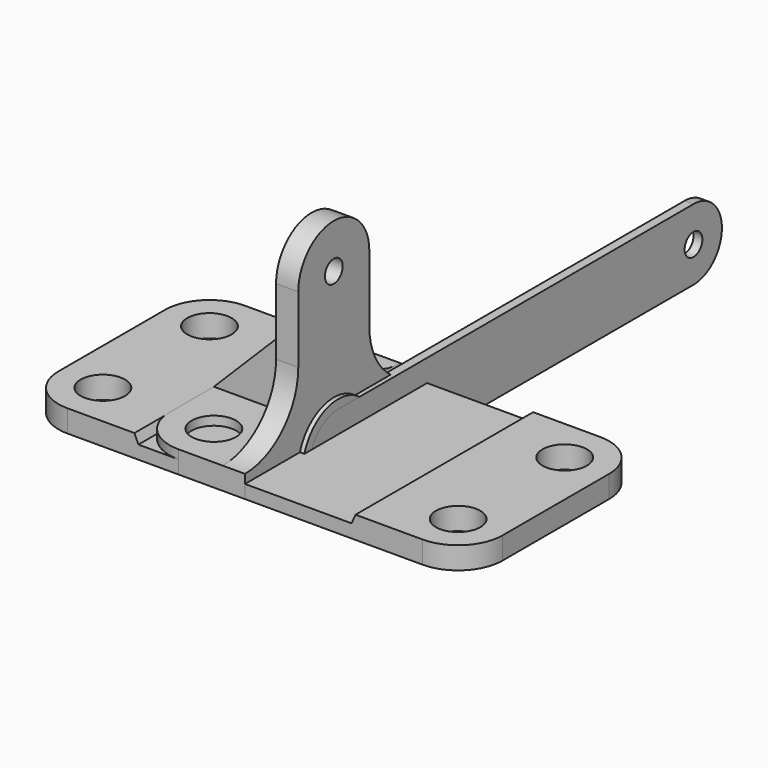
from build123d import *

# Parameters (mm, degrees)
SKETCH_R          = 5
PAD_DEPTH         = 5
POCKET_DEPTH      = 25.001
POCKET_DEPTH_BACK = 25.001
SKETCH002_R       = 5
PAD001_DEPTH      = 5
SKETCH003_R       = 2.5
PAD002_DEPTH      = 5
PAD003_DEPTH      = 2.5
SKETCH005_R       = 10
SKETCH005_R_2     = 2.5
PAD004_DEPTH      = 1
SKETCH006_R       = 2.5
PAD005_DEPTH      = 1


with BuildPart() as base:
    # Sketch → Pad (new body)
    with BuildSketch(Plane.XY):
        with BuildLine():
            Line((-50, 15), (-50, -15))
            ThreePointArc((-50, -15), (-47.071068, -22.071068), (-40, -25))
            Line((-40, -25), (0, -25))
            Line((0, -25), (0, 25))
            Line((0, 25), (-40, 25))
            ThreePointArc((-40, 25), (-47.071068, 22.071068), (-50, 15))
        make_face()
        with Locations((-40, 15)):
            Circle(SKETCH_R, mode=Mode.SUBTRACT)
        with Locations((-40, -15)):
            Circle(SKETCH_R, mode=Mode.SUBTRACT)
    extrude(amount=PAD_DEPTH)

    # Sketch001 → Pocket (cut, two sides)
    with BuildSketch(Plane.XZ) as pocket_sk:
        Polygon((0, 3), (-24, 3), (-24.890457, 5), (0, 5), align=None)
    extrude(amount=-POCKET_DEPTH, mode=Mode.SUBTRACT)
    extrude(pocket_sk.sketch, amount=POCKET_DEPTH_BACK, mode=Mode.SUBTRACT)

    # Mirrored: Base across YZ


with BuildPart() as base_1:
    add(base.part)
    add(base.part.mirror(Plane.YZ))


with BuildPart() as bracket:
    # Sketch002 → Pad001 (new body)
    with BuildSketch(Plane.XY):
        with BuildLine():
            Line((0, 25), (-15, 25))
            ThreePointArc((-15, 25), (-22.071068, 22.071068), (-25, 15))
            Line((-25, 15), (-25, -15))
            ThreePointArc((-25, -15), (-22.071068, -22.071068), (-15, -25))
            Line((-15, -25), (0, -25))
            Line((0, -25), (0, 25))
        make_face()
        with Locations((-15, 15)):
            Circle(SKETCH002_R, mode=Mode.SUBTRACT)
        with Locations((-15, -15)):
            Circle(SKETCH002_R, mode=Mode.SUBTRACT)
    extrude(amount=PAD001_DEPTH)

    # Sketch003 → Pad002 (join)
    with BuildSketch(Plane.YZ):
        with BuildLine():
            ThreePointArc((-25, 5), (-14.393398, 9.393398), (-10, 20))
            Line((-10, 20), (-10, 35))
            ThreePointArc((10, 35), (0, 45), (-10, 35))
            Line((10, 20), (10, 35))
            ThreePointArc((10, 20), (14.393398, 9.393398), (25, 5))
            Line((-25, 5), (25, 5))
        make_face()
        with Locations((0, 35)):
            Circle(SKETCH003_R, mode=Mode.SUBTRACT)
    extrude(amount=-PAD002_DEPTH)

    # Sketch004 → Pad003 (join, symmetric)
    with BuildSketch(Plane.XZ):
        Polygon((-25, 5), (-5, 5), (-5, 25), align=None)
    extrude(amount=PAD003_DEPTH, both=True)


with BuildPart() as oring:
    # Sketch005 → Pad004 (new body, symmetric)
    with BuildSketch(Plane.YZ):
        Circle(SKETCH005_R)
        Circle(SKETCH005_R_2, mode=Mode.SUBTRACT)
    extrude(amount=PAD004_DEPTH, both=True)


with BuildPart() as link:
    # Sketch006 → Pad005 (new body, symmetric)
    with BuildSketch(Plane.YZ):
        with BuildLine():
            ThreePointArc((0, 8), (-8, 0), (0, -8))
            Line((0, -8), (100, -8))
            ThreePointArc((100, -8), (108, 0), (100, 8))
            Line((0, 8), (100, 8))
        make_face()
        Circle(SKETCH006_R, mode=Mode.SUBTRACT)
        with Locations((100, 0)):
            Circle(SKETCH006_R, mode=Mode.SUBTRACT)
    extrude(amount=PAD005_DEPTH, both=True)


solid = Compound([base_1.part, bracket.part, oring.part, link.part])
